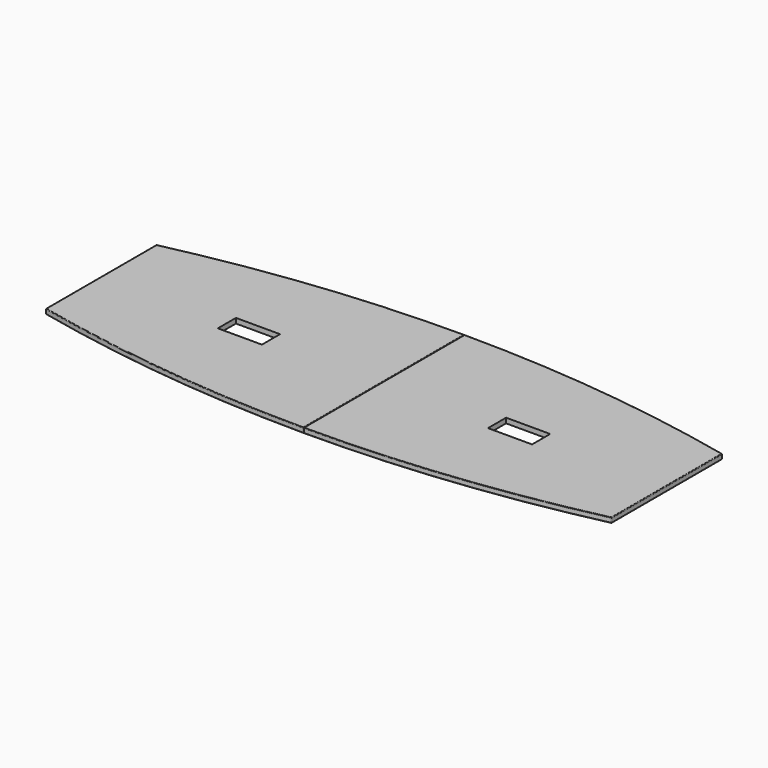
from build123d import *

# Parameters (mm, degrees)
F1_DEPTH = 40
F2_DEPTH = 40
F3_R     = 5
F4_R     = 5
F5_W     = 351
F5_H     = 180
F6_DEPTH = 40
F7_W     = 351
F7_H     = 180
F8_DEPTH = 40.0010001


with BuildPart() as f1:
    # F0 (on Top) → F1 (new body)
    with BuildSketch(Plane.XY):
        with BuildLine():
            ThreePointArc((0, -800), (1131.9231422672, -737.3082804046), (2250, -550))
            Line((2250, -550), (2250, 550))
            ThreePointArc((2250, 550), (1131.9231422672, 737.3082804046), (0, 800))
            Line((0, 800), (0, -800))
        make_face()
    extrude(amount=F1_DEPTH)

    # F3
    f3_edges = [f1.edges().sort_by_distance(p)[0] for p in [
        (2250, -550, 20),
        (2250, 550, 20),
        (0, -800, 20),
        (0, 800, 20),
        (1131.923142, -737.30828, 40),
        (2250, 0, 40),
        (1131.923142, 737.30828, 40),
        (0, 0, 40),
        (1131.923142, -737.30828, 0),
        (2250, 0, 0),
        (1131.923142, 737.30828, 0),
        (0, 0, 0),
    ]]
    fillet(f3_edges, radius=F3_R)

    # F5 (on face) → F6 (cut)
    with BuildSketch(Plane.XY.offset(40)):
        with Locations((1074.5, 0)):
            Rectangle(F5_W, F5_H)
    extrude(amount=-F6_DEPTH, mode=Mode.SUBTRACT)


with BuildPart() as f2:
    # F0 (on Top) → F2 (new body)
    with BuildSketch(Plane.XY):
        with BuildLine():
            ThreePointArc((-2250, -550), (-1131.9231422672, -737.3082804046), (0, -800))
            Line((0, -800), (0, 800))
            ThreePointArc((0, 800), (-1131.9231422672, 737.3082804046), (-2250, 550))
            Line((-2250, 550), (-2250, -550))
        make_face()
    extrude(amount=F2_DEPTH)

    # F4
    f4_edges = [f2.edges().sort_by_distance(p)[0] for p in [
        (0, -800, 20),
        (-2250, -550, 20),
        (-2250, 550, 20),
        (0, 800, 20),
        (-1131.923142, -737.30828, 40),
        (0, 0, 40),
        (-1131.923142, 737.30828, 40),
        (-2250, 0, 40),
        (-1131.923142, -737.30828, 0),
        (0, 0, 0),
        (-1131.923142, 737.30828, 0),
        (-2250, 0, 0),
    ]]
    fillet(f4_edges, radius=F4_R)

    # F7 (on face) → F8 (cut, through all)
    with BuildSketch(Plane.XY.offset(40)):
        with Locations((-1074.5, 0)):
            Rectangle(F7_W, F7_H)
    extrude(amount=-F8_DEPTH, mode=Mode.SUBTRACT)


solid = Compound([f1.part, f2.part])
